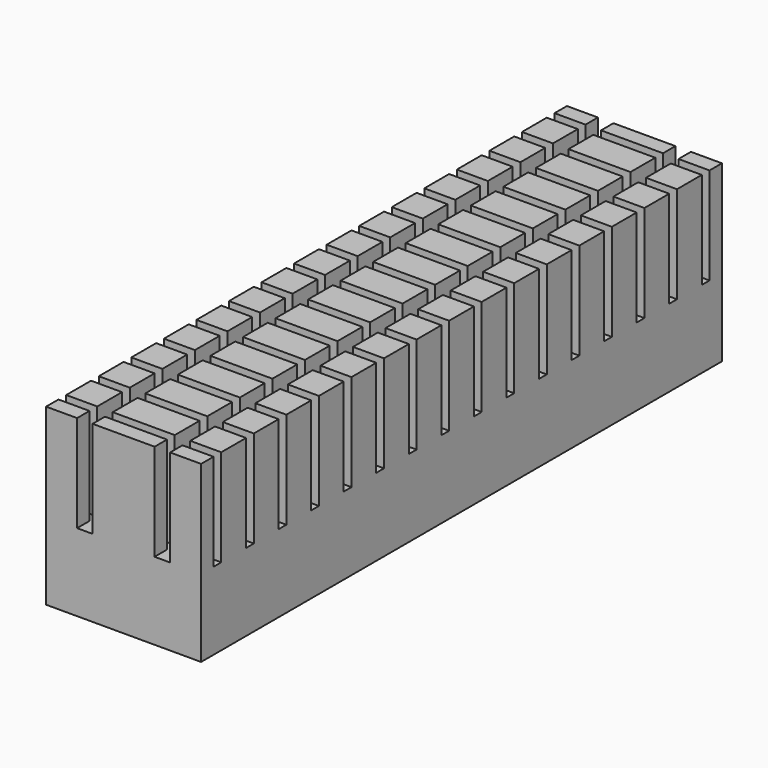
from build123d import *

# Parameters (mm, degrees)
F0_W     = 1.6
F0_H     = 0.8
F0_W_2   = 0.8
F0_H_2   = 0.5
F1_DEPTH = 4
F2_DEPTH = 5


with BuildPart() as f1:
    # F0 (on Top) → F1 (new body)
    with BuildSketch(Plane.XY):
        with Locations((1.2, -0.65)):
            Rectangle(F0_W, F0_H)
        with Locations((0, 0.65)):
            Rectangle(F0_W_2, F0_H)
        with Locations((1.2, 0)):
            Rectangle(F0_W, F0_H_2)
        with Locations((0, -0.65)):
            Rectangle(F0_W_2, F0_H)
        with Locations((-1.2, -0.65)):
            Rectangle(F0_W, F0_H)
        with Locations((-1.2, 0.65)):
            Rectangle(F0_W, F0_H)
        with Locations((1.2, 0.65)):
            Rectangle(F0_W, F0_H)
        with Locations((-1.2, 0)):
            Rectangle(F0_W, F0_H_2)
        Rectangle(F0_W_2, F0_H_2)
    extrude(amount=-F1_DEPTH)

    # F0 (on Top) → F2 (join)
    with BuildSketch(Plane.XY):
        with Locations((1.2, 0.65)):
            Rectangle(F0_W, F0_H)
        with Locations((-1.2, 0.65)):
            Rectangle(F0_W, F0_H)
        with Locations((1.2, -0.65)):
            Rectangle(F0_W, F0_H)
        with Locations((-1.2, -0.65)):
            Rectangle(F0_W, F0_H)
    extrude(amount=F2_DEPTH)

    # F3: F1 across face


with BuildPart() as f1_1:
    add(f1.part)
    add(f1.part.mirror(Plane(origin=(0, -1.05, 0.25), x_dir=(1, 0, 0), z_dir=(0, -1, 0))))

    # F4: F1 across face


with BuildPart() as f1_2:
    add(f1_1.part)
    add(f1_1.part.mirror(Plane(origin=(0, -3.15, 0.25), x_dir=(1, 0, 0), z_dir=(0, -1, 0))))

    # F5: F1 across face


with BuildPart() as f1_3:
    add(f1_2.part)
    add(f1_2.part.mirror(Plane(origin=(0, -7.35, 0.25), x_dir=(1, 0, 0), z_dir=(0, -1, 0))))

    # F6: F1 across face


with BuildPart() as f1_4:
    add(f1_3.part)
    add(f1_3.part.mirror(Plane(origin=(0, -15.75, 0.25), x_dir=(1, 0, 0), z_dir=(0, -1, 0))))

    # F7: F1 across face


with BuildPart() as f1_5:
    add(f1_4.part)
    add(f1_4.part.mirror(Plane(origin=(-2, -15.75, 0.1951219512), x_dir=(0, -1, 0), z_dir=(-1, 0, 0))))


solid = f1_5.part
